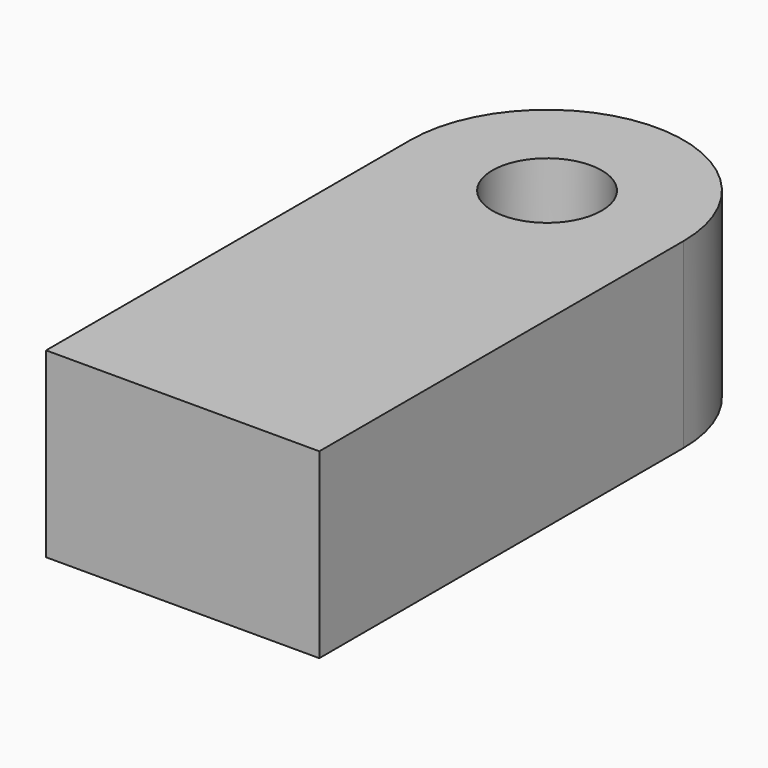
from build123d import *

# Parameters (mm, degrees)
F0_R     = 6
F1_DEPTH = 20


with BuildPart() as f1:
    # F0 (on Top) → F1 (new body)
    with BuildSketch(Plane.XY):
        with BuildLine():
            Line((-15, 50), (-15, 0))
            Line((-15, 0), (15, 0))
            Line((15, 0), (15, 50))
            ThreePointArc((15, 50), (0, 65), (-15, 50))
        make_face()
        with Locations((0, 50)):
            Circle(F0_R, mode=Mode.SUBTRACT)
    extrude(amount=F1_DEPTH)


solid = f1.part
